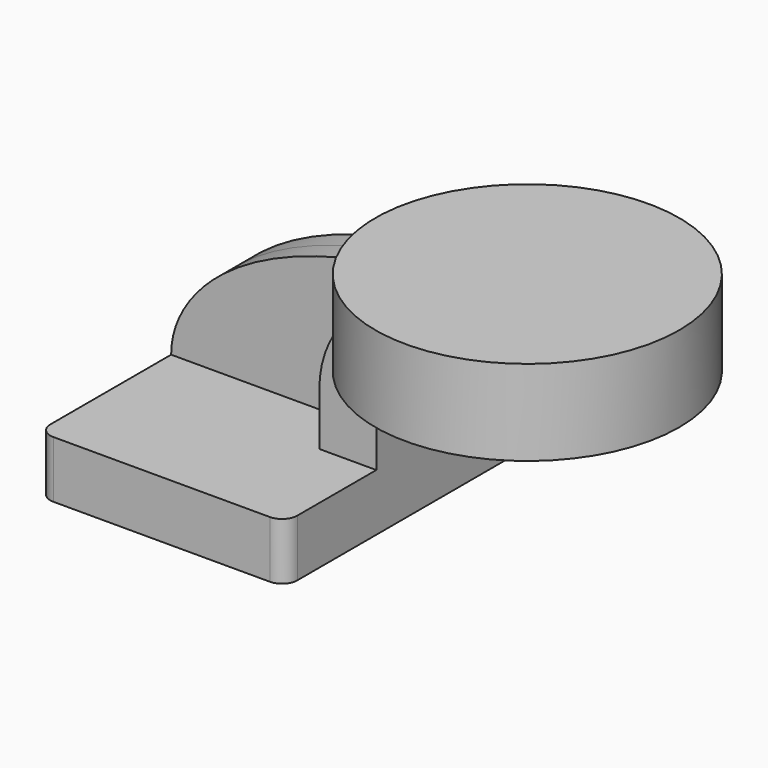
from build123d import *

# Parameters (mm, degrees)
F1_DEPTH = 63.5
F2_DEPTH = 25.4
F3_DEPTH = 7.9375
F0_W     = 14.291249726
F0_H     = 4.7752
F0_H_2   = 4.7498
F0_H_3   = 19.05
F5_R     = 5.08


with BuildPart() as f1:
    # F0 (on Front) → F1 (new body, symmetric)
    with BuildSketch(Plane.XZ):
        Polygon((22.225, 9.525), (-41.275, 9.525), (-41.275, -9.525), (41.275, -9.525), (41.275, 9.525), align=None)
    extrude(amount=F1_DEPTH, both=True)

    # F0 (on Front) → F2 (join, symmetric)
    with BuildSketch(Plane.XZ):
        with BuildLine():
            Line((22.225, 27.0002), (22.225, 9.525))
            Line((22.225, 9.525), (41.275, 9.525))
            Line((41.275, 9.525), (41.275, 27.0002))
            ThreePointArc((41.275, 27.0002), (45.9246798487, 38.2255201513), (57.15, 42.8752))
            Line((57.15, 42.8752), (71.433750274, 42.8752))
            Line((71.433750274, 42.8752), (71.433750274, 61.9252))
            Line((71.433750274, 61.9252), (67.8752437234, 61.9252))
            Line((67.8752437234, 61.9252), (63.7876612968, 61.9252))
            add(Edge.make_bspline(
                [(52.4566688637, 61.6084109888), (56.1143116658, 61.7901051123), (59.8906472041, 61.8974539816), (63.7876612968, 61.9252)],
                knots=[112.7369449664, 112.7369449664, 112.7369449664, 112.7369449664, 118.9332301847, 118.9332301847, 118.9332301847, 118.9332301847], degree=3))
            ThreePointArc((52.4566688637, 61.6084109888), (30.8472414476, 49.9767210059), (22.225, 27.0002))
        make_face()
    extrude(amount=F2_DEPTH, both=True)

    # F0 (on Front) → F3 (join, symmetric)
    with BuildSketch(Plane.XZ):
        with BuildLine():
            add(Edge.make_bspline(
                [(-41.275, 9.525), (-41.3486110715, 30.3861799307), (-14.0915064954, 58.3026173271), (52.4566688637, 61.6084109888)],
                knots=[0, 0, 0, 0, 112.7369449664, 112.7369449664, 112.7369449664, 112.7369449664], degree=3))
            Line((-41.275, 9.525), (22.225, 9.525))
            Line((22.225, 9.525), (22.225, 27.0002))
            ThreePointArc((22.225, 27.0002), (30.8472414476, 49.9767210059), (52.4566688637, 61.6084109888))
        make_face()
    extrude(amount=F3_DEPTH, both=True)

    # F0 (on Front) → F4 (revolve)
    with BuildSketch(Plane.XZ):
        with Locations((78.579375137, 40.4876)):
            Rectangle(F0_W, F0_H)
        with Locations((78.579375137, 64.3001)):
            Rectangle(F0_W, F0_H_2)
        with Locations((78.579375137, 52.4002)):
            Rectangle(F0_W, F0_H_3)
        Polygon((85.725, 66.675), (85.725, 61.9252), (85.725, 42.8752), (85.725, 38.1), (122.233750274, 38.1), (122.233750274, 66.675), align=None)
    revolve(axis=Axis((71.433750274, 0, 52.3875), (0, 0, -1)))

    # F5
    f5_edges = [f1.edges().sort_by_distance(p)[0] for p in [
        (41.275, -63.5, 0),
        (-41.275, -63.5, 0),
        (41.275, 63.5, 0),
        (-41.275, 63.5, 0),
    ]]
    fillet(f5_edges, radius=F5_R)


solid = f1.part
